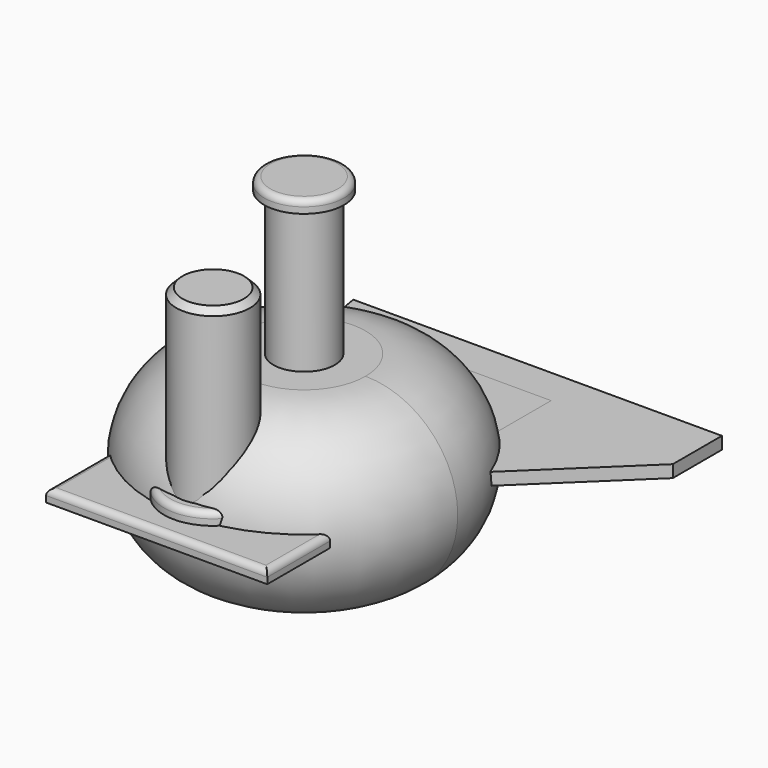
from build123d import *

# Parameters (mm, degrees)
REVOLUTION_ANGLE = -360
SKETCH001_R      = 2.5
POCKET_DEPTH     = 15.001
SKETCH002_R      = 2.5
PAD_DEPTH        = 1
SKETCH003_W      = 18
SKETCH003_H      = 30
PAD001_DEPTH     = 1
SKETCH004_R      = 3
PAD002_DEPTH     = 15
SKETCH008_R      = 4
SKETCH008_R_2    = 3.05
PAD006_DEPTH     = 2
FILLET_R         = 0.5
CHAMFER_SIZE     = 0.5
FILLET001_R      = 0.5
SKETCH005_R      = 3.25
PAD003_DEPTH     = 1
SKETCH006_R      = 2.5
PAD004_DEPTH     = 18.2
SKETCH007_R      = 3.25
PAD005_DEPTH     = 1
FILLET002_R      = 0.5
FILLET003_R      = 0.5


with BuildPart() as bodyruota:
    # Sketch → Revolution (revolve, symmetric)
    with BuildSketch(Plane.XZ) as revolution_sk:
        with BuildLine():
            Line((5, 7.5), (0, 7.5))
            Line((0, 7.5), (0, -7.5))
            Line((5, -7.5), (0, -7.5))
            ThreePointArc((5, -7.5), (12.5, 0), (5, 7.5))
        make_face()
    revolve(axis=Axis((0, 0, 0), (0, 0, 1)), revolution_arc=REVOLUTION_ANGLE / 2)
    revolve(revolution_sk.sketch, axis=Axis((0, 0, 0), (0, 0, -1)), revolution_arc=REVOLUTION_ANGLE / 2)

    # Sketch001 (on Face2 of Revolution) → Pocket (cut, through all)
    with BuildSketch(Plane(origin=(0, 0, 7.5), x_dir=(-1, 0, 0), z_dir=(0, 0, 1))):
        Circle(SKETCH001_R)
    extrude(amount=-POCKET_DEPTH, mode=Mode.SUBTRACT)


with BuildPart() as obj1:
    # Sketch002 → Pad (new body)
    with BuildSketch(Plane.XY):
        with BuildLine():
            Line((-7, 0), (-10, 17.5))
            Line((-10, 17.5), (20, 17.5))
            Line((20, 17.5), (20, 12.5))
            Line((20, 12.5), (7, 0))
            ThreePointArc((-7, 0), (0, -7), (7, 0))
        make_face()
        Circle(SKETCH002_R, mode=Mode.SUBTRACT)
    extrude(amount=PAD_DEPTH)


with BuildPart() as obj2:
    # Sketch003 → Pad001 (new body)
    with BuildSketch(Plane.XY):
        Rectangle(SKETCH003_W, SKETCH003_H)
    extrude(amount=PAD001_DEPTH)

    # Sketch004 (on Face6 of Pad001) → Pad002 (join)
    with BuildSketch(Plane.XY.offset(1)):
        with Locations((0, -9.25)):
            Circle(SKETCH004_R)
    extrude(amount=PAD002_DEPTH)

    # Sketch008 → Pad006 (join)
    with BuildSketch(Plane.XY):
        with Locations((0, -9.25)):
            Circle(SKETCH008_R)
        with Locations((0, -9.25)):
            Circle(SKETCH008_R_2, mode=Mode.SUBTRACT)
    extrude(amount=PAD006_DEPTH)

    # Fillet
    fillet_edges = [obj2.edges().sort_by_distance(p)[0] for p in [
        (-4, -9.25, 2),
    ]]
    fillet(fillet_edges, radius=FILLET_R)

    # Chamfer
    chamfer_edges = [obj2.edges().sort_by_distance(p)[0] for p in [
        (-3, -9.25, 16),
    ]]
    chamfer(chamfer_edges, length=CHAMFER_SIZE)

    # Fillet001
    fillet001_edges = [obj2.edges().sort_by_distance(p)[0] for p in [
        (-9, 0, 1),
        (0, 15, 1),
        (9, 0, 1),
        (0, -15, 1),
    ]]
    fillet(fillet001_edges, radius=FILLET001_R)


with BuildPart() as obj3:
    # Sketch005 → Pad003 (new body)
    with BuildSketch(Plane.XY):
        Circle(SKETCH005_R)
    extrude(amount=PAD003_DEPTH)

    # Sketch006 (on Face3 of Pad003) → Pad004 (join)
    with BuildSketch(Plane.XY.offset(1)):
        Circle(SKETCH006_R)
    extrude(amount=PAD004_DEPTH)

    # Sketch007 (on Face5 of Pad004) → Pad005 (join)
    with BuildSketch(Plane.XY.offset(19.2)):
        Circle(SKETCH007_R)
    extrude(amount=PAD005_DEPTH)

    # Fillet002
    fillet002_edges = [obj3.edges().sort_by_distance(p)[0] for p in [
        (-3.25, 0, 20.2),
    ]]
    fillet(fillet002_edges, radius=FILLET002_R)

    # Fillet003
    fillet003_edges = [obj3.edges().sort_by_distance(p)[0] for p in [
        (-3.25, 0, 0),
    ]]
    fillet(fillet003_edges, radius=FILLET003_R)


solid = Compound([bodyruota.part, obj1.part, obj2.part, obj3.part])
